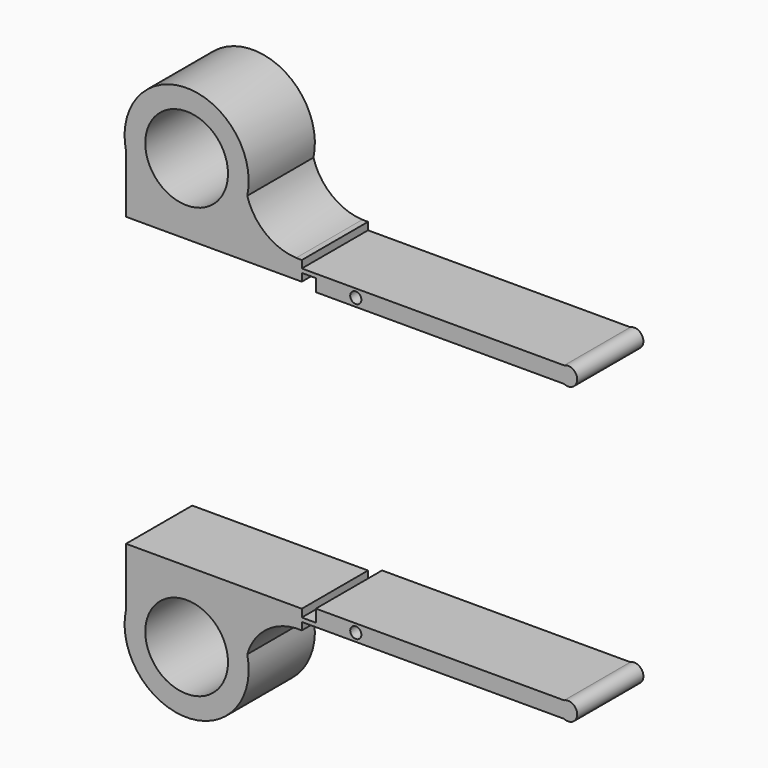
from build123d import *

# Parameters (mm, degrees)
F0_R     = 12.7
F1_DEPTH = 25.4


with BuildPart() as f1:
    # F0 (on Front) → F1 (new body)
    with BuildSketch(Plane.XZ):
        with BuildLine():
            Line((-58.293, 3.119478), (-58.293, -14.660522))
            Line((-58.293, -14.660522), (-4.318, -14.660522))
            Line((-4.318, -14.660522), (-4.318, -12.281183))
            Line((-4.318, -12.281183), (-4.318, -11.079122))
            Line((-4.318, -11.079122), (-4.318, -8.793122))
            ThreePointArc((-4.318, -8.793122), (-5.201756, -8.816792), (-6.085512, -8.793122))
            ThreePointArc((-6.085512, -8.793122), (-15.477841, -5.228951), (-21.065586, 3.119478))
            ThreePointArc((-21.065586, 3.119478), (-39.679293, 26.223168), (-58.293, 3.119478))
        make_face()
        with Locations((-39.679293, 7.173168)):
            Circle(F0_R, mode=Mode.SUBTRACT)
        with BuildLine():
            Line((-4.318, -11.079122), (-4.318, -12.281183))
            Line((-4.318, -12.281183), (0, -12.281183))
            Line((0, -12.281183), (0, -16.088655))
            Line((0, -16.088655), (76.2, -16.088655))
            ThreePointArc((76.2, -16.088655), (80.231974, -13.583889), (76.2, -11.079122))
            Line((76.2, -11.079122), (-4.318, -11.079122))
        make_face()
        with BuildLine():
            ThreePointArc((13.969638, -13.548655), (13.969909, -13.566271), (13.97, -13.583889))
            ThreePointArc((13.97, -13.583889), (10.541091, -13.601506), (13.969638, -13.548655))
        make_face(mode=Mode.SUBTRACT)
        with BuildLine():
            Line((-4.318, -8.793122), (-6.085512, -8.793122))
            ThreePointArc((-6.085512, -8.793122), (-5.201756, -8.816792), (-4.318, -8.793122))
        make_face()
        with BuildLine():
            Line((-4.318, -105.411317), (-4.318, -103.031978))
            Line((-4.318, -103.031978), (-58.293, -103.031978))
            Line((-58.293, -103.031978), (-58.293, -120.811978))
            ThreePointArc((-58.293, -120.811978), (-39.679293, -143.915668), (-21.065586, -120.811978))
            ThreePointArc((-21.065586, -120.811978), (-15.477841, -112.463549), (-6.085512, -108.899378))
            ThreePointArc((-6.085512, -108.899378), (-5.201756, -108.875708), (-4.318, -108.899378))
            Line((-4.318, -108.899378), (-4.318, -106.613378))
            Line((-4.318, -106.613378), (-4.318, -105.411317))
        make_face()
        with Locations((-39.679293, -124.865668)):
            Circle(F0_R, mode=Mode.SUBTRACT)
        with BuildLine():
            Line((0, -105.411317), (-4.318, -105.411317))
            Line((-4.318, -105.411317), (-4.318, -106.613378))
            Line((-4.318, -106.613378), (76.2, -106.613378))
            ThreePointArc((76.2, -106.613378), (80.231974, -104.108612), (76.2, -101.603845))
            Line((76.2, -101.603845), (0, -101.603845))
            Line((0, -101.603845), (0, -105.411317))
        make_face()
        with BuildLine():
            ThreePointArc((13.969638, -104.143845), (10.541091, -104.090994), (13.97, -104.108612))
            ThreePointArc((13.97, -104.108612), (13.969909, -104.126229), (13.969638, -104.143845))
        make_face(mode=Mode.SUBTRACT)
        with BuildLine():
            Line((-6.085512, -108.899378), (-4.318, -108.899378))
            ThreePointArc((-4.318, -108.899378), (-5.201756, -108.875708), (-6.085512, -108.899378))
        make_face()
        with BuildLine():
            Line((-58.293, 3.119478), (-58.293, -14.660522))
            Line((-58.293, -14.660522), (-4.318, -14.660522))
            Line((-4.318, -14.660522), (-4.318, -12.281183))
            Line((-4.318, -12.281183), (-4.318, -11.079122))
            Line((-4.318, -11.079122), (-4.318, -8.793122))
            ThreePointArc((-4.318, -8.793122), (-5.201756, -8.816792), (-6.085512, -8.793122))
            ThreePointArc((-6.085512, -8.793122), (-15.477841, -5.228951), (-21.065586, 3.119478))
            ThreePointArc((-21.065586, 3.119478), (-39.679293, 26.223168), (-58.293, 3.119478))
        make_face()
        with Locations((-39.679293, 7.173168)):
            Circle(F0_R, mode=Mode.SUBTRACT)
    extrude(amount=F1_DEPTH)


solid = f1.part
